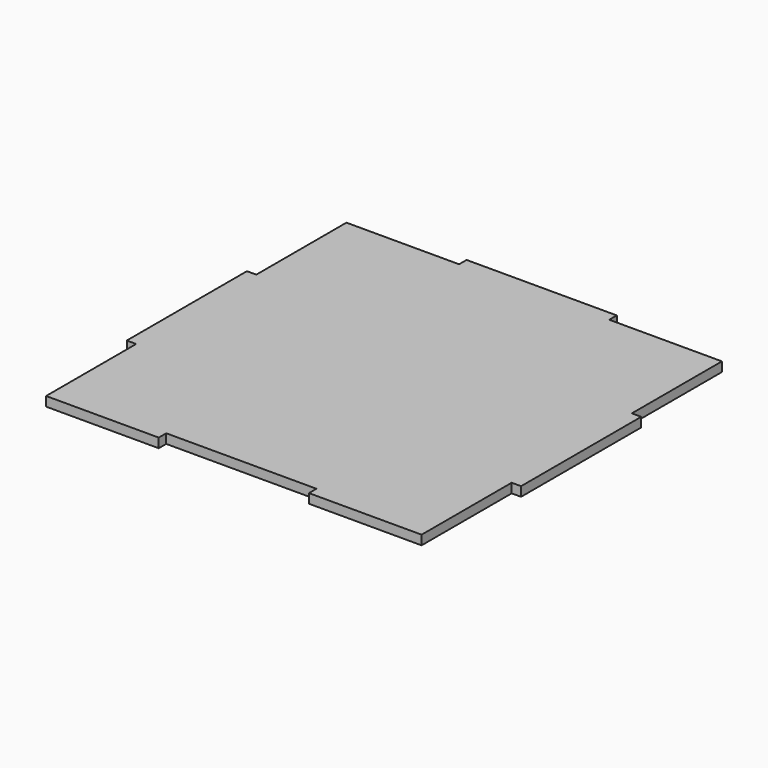
from build123d import *

# Parameters (mm, degrees)
F1_DEPTH = 3.175


with BuildPart() as f1:
    # F0 (on Top) → F1 (new body)
    with BuildSketch(Plane.XY):
        Polygon((25.4, -63.482502), (63.5, -63.482502), (63.5, -25.4), (66.675, -25.4), (66.675, 25.4), (63.5, 25.4), (63.5, 63.482502), (25.4, 63.482502), (25.4, 66.657502), (-25.4, 66.657502), (-25.4, 63.482502), (-63.5, 63.482502), (-63.5, 25.4), (-66.675, 25.4), (-66.675, -25.4), (-63.5, -25.4), (-63.5, -63.482502), (-25.4, -63.482502), (-25.4, -60.307502), (25.4, -60.307502), align=None)
    extrude(amount=F1_DEPTH)


solid = f1.part
